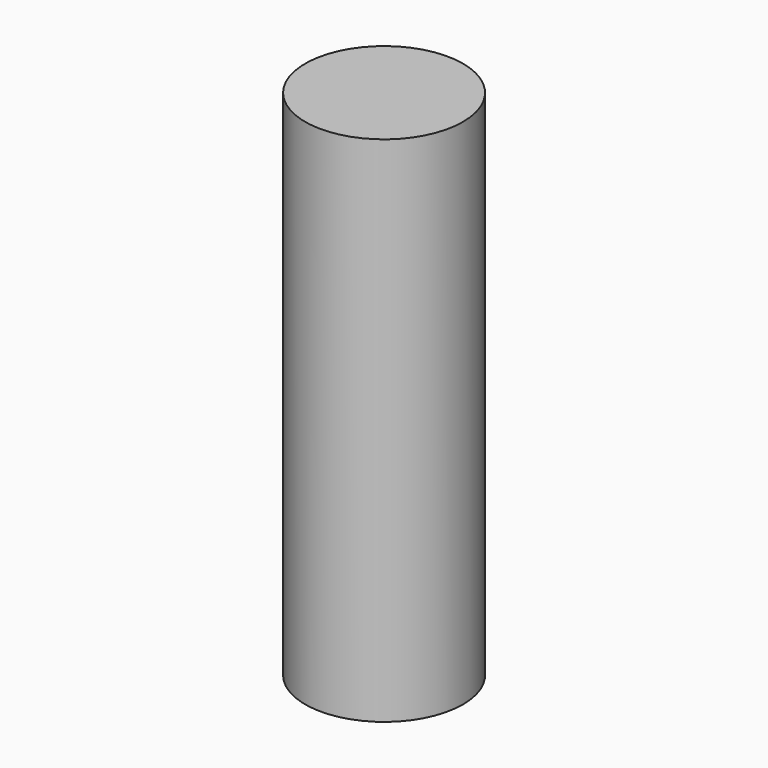
from build123d import *

# Parameters (mm, degrees)
CYLINDER003_R     = 6
CYLINDER003_DEPTH = 25
CYLINDER002_R     = 6
CYLINDER002_DEPTH = 9
CYLINDER_R        = 6
CYLINDER_DEPTH    = 5


with BuildPart() as cylinder003:
    # Cylinder003 → Cylinder003 (new body)
    with BuildSketch(Plane.XY.offset(9)):
        Circle(CYLINDER003_R)
    extrude(amount=CYLINDER003_DEPTH)


with BuildPart() as cylinder002:
    # Cylinder002 → Cylinder002 (new body)
    with BuildSketch(Plane.XY):
        Circle(CYLINDER002_R)
    extrude(amount=CYLINDER002_DEPTH)


with BuildPart() as fusion:
    # Cylinder → Cylinder (new body)
    with BuildSketch(Plane.XY.offset(-5)):
        Circle(CYLINDER_R)
    extrude(amount=CYLINDER_DEPTH)

    # Fusion: union Cylinder003, Cylinder002
    add(cylinder003.part)
    add(cylinder002.part)


solid = fusion.part
